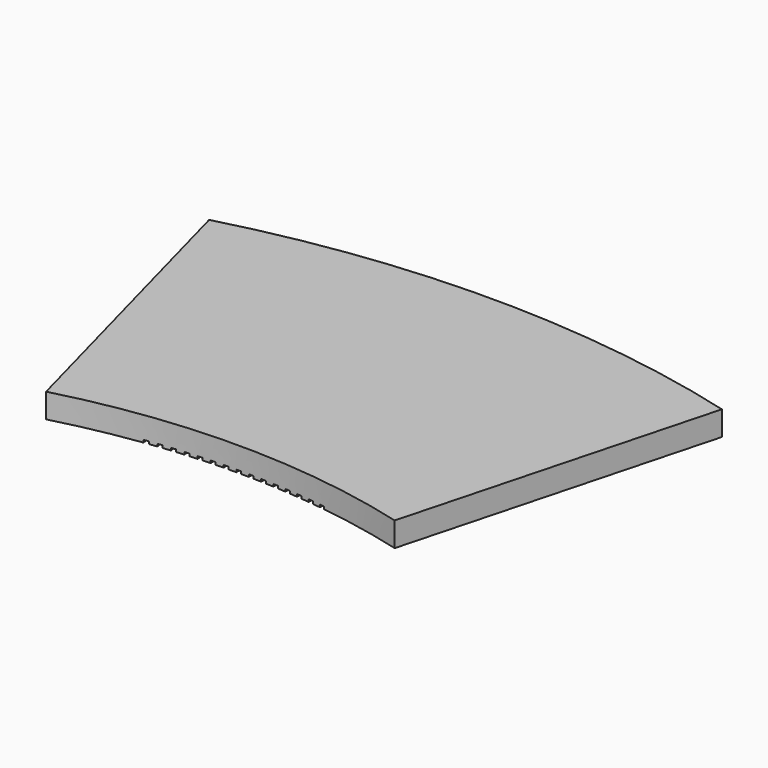
from build123d import *

# Parameters (mm, degrees)
F0_W     = 65
F0_H     = 5
F1_ANGLE = 30
F3_DEPTH = 0.5


with BuildPart() as f1:
    # F0 (on Right) → F1 (revolve, symmetric)
    with BuildSketch(Plane.YZ) as f1_sk:
        with Locations((32.5, 2.5)):
            Rectangle(F0_W, F0_H)
    revolve(axis=Axis((0, -138, 15.424587), (0, 0, 1)), revolution_arc=F1_ANGLE / 2)
    revolve(f1_sk.sketch, axis=Axis((0, -138, 15.424587), (0, 0, -1)), revolution_arc=F1_ANGLE / 2)

    # F2 (on Top) → F3 (cut)
    with BuildSketch(Plane.XY):
        Polygon((-10.676765, -60.732564), (-10.181043, -60.667301), (-9.685321, -60.602038), (-42.316869, 187.259178), (-43.308313, 187.128651), align=None)
        Polygon((9.685321, -60.602038), (10.181043, -60.667301), (10.676765, -60.732564), (43.308313, 187.128651), (42.316869, 187.259178), align=None)
        Polygon((-9.230085, -60.54643), (-8.733229, -60.490448), (-8.236373, -60.434465), (-36.227492, 187.993587), (-37.221204, 187.881623), align=None)
        Polygon((-7.780177, -60.38738), (-7.282361, -60.340698), (-6.784545, -60.294016), (-30.125448, 188.614004), (-31.12108, 188.52064), align=None)
        Polygon((-6.327549, -60.255469), (-5.828947, -60.218104), (-5.330345, -60.180739), (-24.012869, 189.120211), (-25.010073, 189.04548), align=None)
        Polygon((-4.872708, -60.150744), (-4.373495, -60.122708), (-3.874281, -60.094673), (-17.891893, 189.512031), (-18.89032, 189.45596), align=None)
        Polygon((-3.416164, -60.073241), (-2.916513, -60.054545), (-2.416863, -60.035849), (-11.764661, 189.789327), (-12.763962, 189.751936), align=None)
        Polygon((-1.958424, -60.022987), (-1.458512, -60.013637), (-0.958599, -60.004288), (-5.633316, 189.952002), (-6.633141, 189.933303), align=None)
        Polygon((-0.5, -60), (0, -60), (0.5, -60), (0.5, 190), (-0.5, 190), align=None)
        Polygon((0.958599, -60.004288), (1.458512, -60.013637), (1.958424, -60.022987), (6.633141, 189.933303), (5.633316, 189.952002), align=None)
        Polygon((2.416863, -60.035849), (2.916513, -60.054545), (3.416164, -60.073241), (12.763962, 189.751936), (11.764661, 189.789327), align=None)
        Polygon((3.874281, -60.094673), (4.373495, -60.122708), (4.872708, -60.150744), (18.89032, 189.45596), (17.891893, 189.512031), align=None)
        Polygon((5.330345, -60.180739), (5.828947, -60.218104), (6.327549, -60.255469), (25.010073, 189.04548), (24.012869, 189.120211), align=None)
        Polygon((6.784545, -60.294016), (7.282361, -60.340698), (7.780177, -60.38738), (31.12108, 188.52064), (30.125448, 188.614004), align=None)
        Polygon((8.236373, -60.434465), (8.733229, -60.490448), (9.230085, -60.54643), (37.221204, 187.881623), (36.227492, 187.993587), align=None)
    extrude(amount=F3_DEPTH, mode=Mode.SUBTRACT)


solid = f1.part
